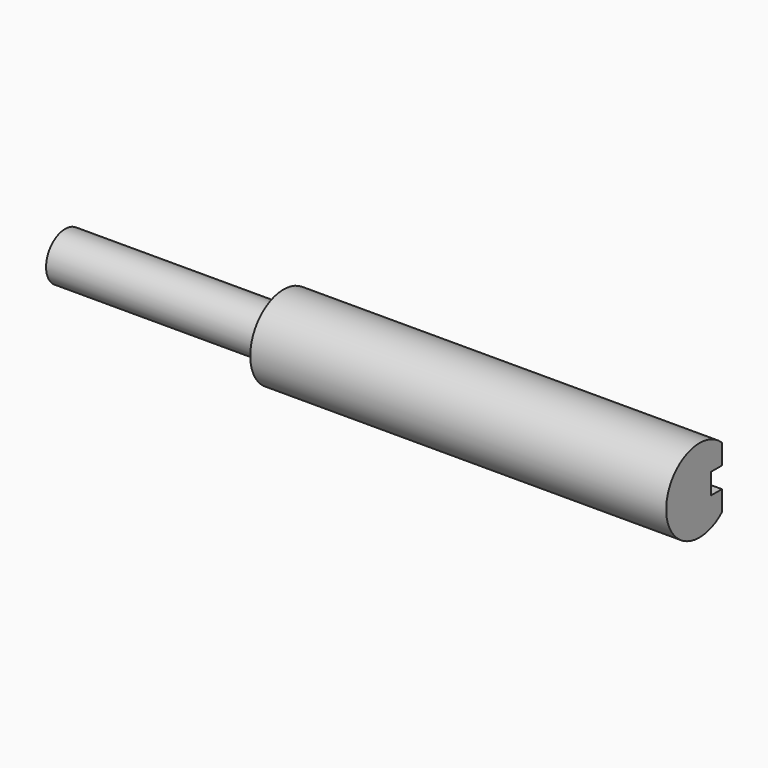
from build123d import *

# Parameters (mm, degrees)
SKETCH009_R     = 4
PAD002_DEPTH    = 40
PAD004_DEPTH    = 21
POCKET007_DEPTH = 24


with BuildPart() as part:
    # Sketch009 → Pad002 (new body)
    with BuildSketch(Plane.YZ):
        Circle(SKETCH009_R)
    extrude(amount=PAD002_DEPTH)

    # Sketch011 → Pad004 (join)
    with BuildSketch(Plane.YZ):
        with BuildLine():
            ThreePointArc((1.9, 1.296148), (-2.3, 0), (1.9, -1.296148))
            Line((1.9, -0.65), (1.9, -1.296148))
            Line((1.4, -0.65), (1.9, -0.65))
            Line((1.4, 0.65), (1.4, -0.65))
            Line((1.9, 0.65), (1.4, 0.65))
            Line((1.9, 1.296148), (1.9, 0.65))
        make_face()
    extrude(amount=-PAD004_DEPTH)

    # Sketch021 (on Face3 of Pad004) → Pocket007 (cut)
    with BuildSketch(Plane.YZ.offset(40)):
        with BuildLine():
            Line((1.4, -1), (1.4, 1))
            Line((1.4, 1), (2.7, 1))
            Line((2.7, 1), (2.7, 2.951271))
            ThreePointArc((2.7, -2.951271), (4, 0), (2.7, 2.951271))
            Line((2.7, -1), (2.7, -2.951271))
            Line((1.4, -1), (2.7, -1))
        make_face()
    extrude(amount=-POCKET007_DEPTH, mode=Mode.SUBTRACT)


with BuildPart() as part_1:
    # Body002 placement: moved
    add(part.part.moved(Location((22, 0, 0))))


solid = part_1.part
